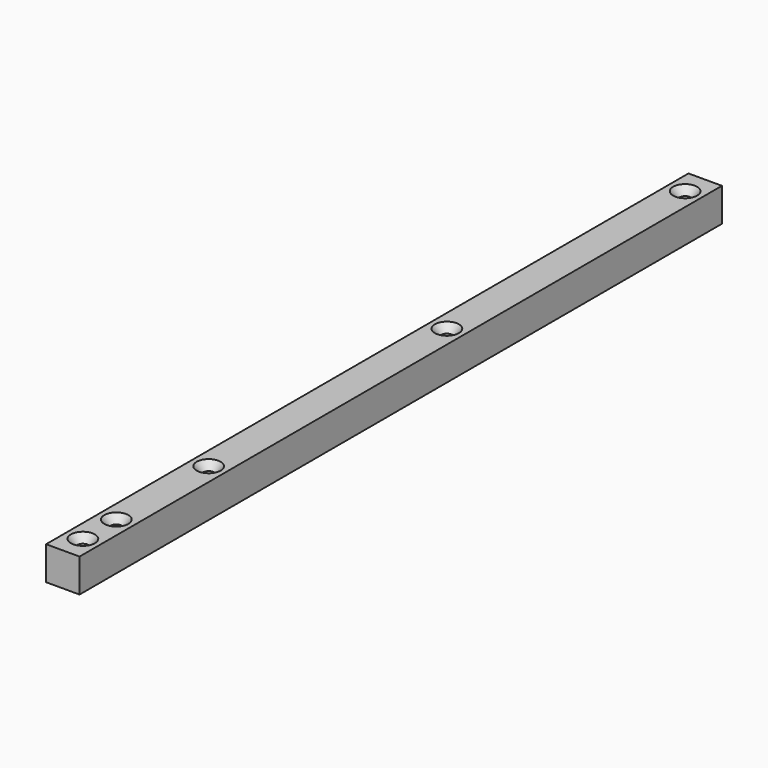
from build123d import *

# Parameters (mm, degrees)
F0_W           = 12.7
F0_H           = 12.7
F1_DEPTH       = 304.8
F3_D           = 4.318
F3_CSINK_D     = 9.1186
F3_CSINK_ANGLE = 82


with BuildPart() as f1:
    # F0 (on Front) → F1 (new body)
    with BuildSketch(Plane.XZ):
        with Locations((6.35, 6.35)):
            Rectangle(F0_W, F0_H)
    extrude(amount=F1_DEPTH)

    # F3 (through all)
    with Locations(Plane.XY.offset(12.7)):
        with Locations((6.35, -9.525), (6.35, -122.555), (6.35, -235.585), (6.35, -279.4), (6.35, -295.275)):
            CounterSinkHole(F3_D / 2, F3_CSINK_D / 2, counter_sink_angle=F3_CSINK_ANGLE)


solid = f1.part
